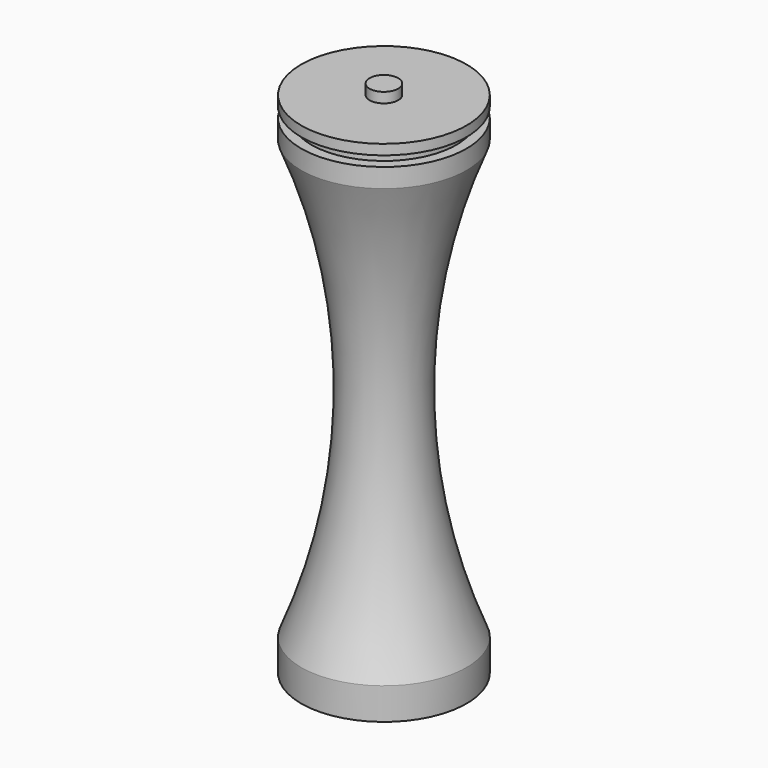
from build123d import *


with BuildPart() as f1:
    # F0 (on Front) → F1 (revolve)
    with BuildSketch(Plane.XZ):
        with BuildLine():
            Line((-2.25, 49.230757), (-13, 49.230757))
            Line((-13, 49.230757), (-13, 47.630757))
            Line((-13, 47.630757), (-11.4, 47.630757))
            Line((-11.4, 47.630757), (-11.4, 46.030757))
            Line((-11.4, 46.030757), (-13, 46.030757))
            Line((-13, 46.030757), (-13, 43.030757))
            ThreePointArc((-13, 43.030757), (-6.166339, 8.630757), (-13, -25.769243))
            Line((-13, -25.769243), (-13, -30.769243))
            Line((-13, -30.769243), (0, -30.769243))
            Line((0, -30.769243), (0, 50.830757))
            Line((0, 50.830757), (-2.25, 50.830757))
            Line((-2.25, 50.830757), (-2.25, 49.230757))
        make_face()
    revolve(axis=Axis((0, 0, 10.030757), (0, 0, -1)))


solid = f1.part
